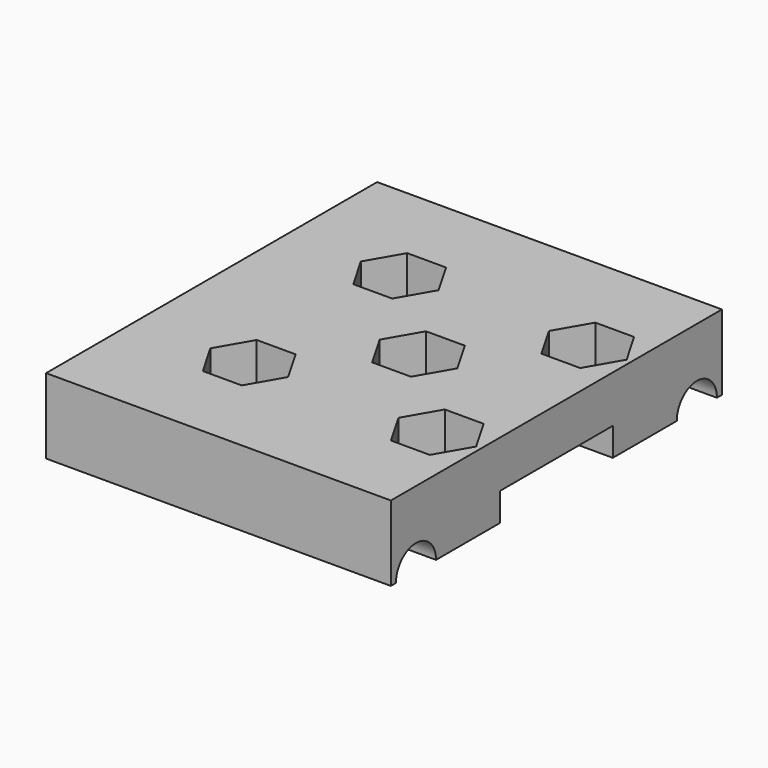
from build123d import *

# Parameters (mm, degrees)
SKETCH_W        = 55
SKETCH_H        = 66
PAD_DEPTH       = 12
POCKET_DEPTH    = 6
SKETCH002_R     = 3.3
POCKET001_DEPTH = 6.001
SKETCH003_R     = 4
POCKET002_DEPTH = 55.001
POCKET003_DEPTH = 4.5
SKETCH005_R     = 3.3
POCKET004_DEPTH = 5.5
POCKET005_DEPTH = 5.5


with BuildPart() as part:
    # Sketch → Pad (new body)
    with BuildSketch(Plane.XY):
        with Locations((-5.5, 0)):
            Rectangle(SKETCH_W, SKETCH_H)
    extrude(amount=PAD_DEPTH)

    # Sketch001 → Pocket (cut)
    with BuildSketch(Plane.XY.offset(12)):
        Polygon((18.1, 9.630642), (21.2, 15), (18.1, 20.369358), (11.9, 20.369358), (8.8, 15), (11.9, 9.630642), align=None)
        Polygon((-11.9, -20.369358), (-8.8, -15), (-11.9, -9.630642), (-18.1, -9.630642), (-21.2, -15), (-18.1, -20.369358), align=None)
        Polygon((11.9, -9.630642), (8.8, -15), (11.9, -20.369358), (18.1, -20.369358), (21.2, -15), (18.1, -9.630642), align=None)
        Polygon((-8.8, 15), (-11.9, 20.369358), (-18.1, 20.369358), (-21.2, 15), (-18.1, 9.630642), (-11.9, 9.630642), align=None)
        Polygon((3.1, -5.369358), (6.2, 0), (3.1, 5.369358), (-3.1, 5.369358), (-6.2, 0), (-3.1, -5.369358), align=None)
    extrude(amount=-POCKET_DEPTH, mode=Mode.SUBTRACT)

    # Sketch002 → Pocket001 (cut, through all)
    with BuildSketch(Plane.XY.offset(6)):
        with Locations((-15, 15)):
            Circle(SKETCH002_R)
        with Locations((15, 15)):
            Circle(SKETCH002_R)
        Circle(SKETCH002_R)
        with Locations((15, -15)):
            Circle(SKETCH002_R)
        with Locations((-15, -15)):
            Circle(SKETCH002_R)
    extrude(amount=-POCKET001_DEPTH, mode=Mode.SUBTRACT)

    # Sketch003 → Pocket002 (cut, through all)
    with BuildSketch(Plane.YZ.offset(22)):
        with Locations((-28, 0)):
            Circle(SKETCH003_R)
        with Locations((28, 0)):
            Circle(SKETCH003_R)
    extrude(amount=-POCKET002_DEPTH, mode=Mode.SUBTRACT)

    # Sketch004 → Pocket003 (cut)
    with BuildSketch(Plane(origin=(0, 0, 0), x_dir=(1, 0, 0), z_dir=(0, 0, -1))):
        with BuildLine():
            ThreePointArc((0, 11.25), (-11.25, 0), (0, -11.25))
            Line((0, -11.25), (22, -11.25))
            Line((22, 11.25), (22, -11.25))
            Line((0, 11.25), (22, 11.25))
        make_face()
    extrude(amount=-POCKET003_DEPTH, mode=Mode.SUBTRACT)

    # Sketch005 → Pocket004 (cut)
    with BuildSketch(Plane(origin=(-33, 0, 0), x_dir=(0, -1, 0), z_dir=(-1, 0, 0))):
        with Locations((-15, 0)):
            Circle(SKETCH005_R)
        with Locations((15, 0)):
            Circle(SKETCH005_R)
    extrude(amount=-POCKET004_DEPTH, mode=Mode.SUBTRACT)

    # Sketch006 → Pocket005 (cut)
    with BuildSketch(Plane(origin=(-27.5, 0, 0), x_dir=(0, -1, 0), z_dir=(-1, 0, 0))):
        Polygon((-9.630642, 3.1), (-15, 6.2), (-20.369358, 3.1), (-20.369358, -3.1), (-15, -6.2), (-9.630642, -3.1), align=None)
        Polygon((20.369358, 3.1), (15, 6.2), (9.630642, 3.1), (9.630642, -3.1), (15, -6.2), (20.369358, -3.1), align=None)
    extrude(amount=-POCKET005_DEPTH, mode=Mode.SUBTRACT)


solid = part.part
